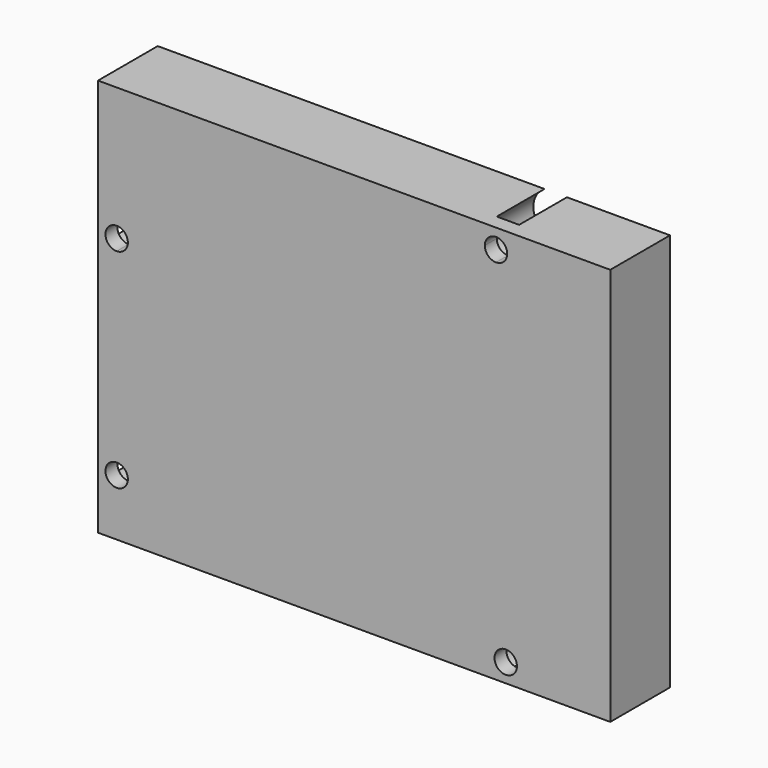
from build123d import *

# Parameters (mm, degrees)
F1_DEPTH = 10
F2_R     = 3
F3_DEPTH = 8


with BuildPart() as f1:
    # F0 (on Front) → F1 (new body)
    with BuildSketch(Plane.XZ):
        with BuildLine():
            Line((34.3, 26.65), (-34.3, 26.65))
            Line((-34.3, 26.65), (-34.3, 24.05))
            Line((-34.3, 24.05), (-31.8, 24.05))
            Line((-31.8, 24.05), (17.5, 24.05))
            ThreePointArc((17.5, 24.05), (19, 25.55), (20.5, 24.05))
            ThreePointArc((20.5, 24.05), (20.06066, 22.98934), (19, 22.55))
            Line((19, 22.55), (19, -23.401669))
            ThreePointArc((19, -23.401669), (20.687298, -22.700862), (21.8, -24.15))
            Line((21.8, -24.15), (34.3, -24.15))
            Line((34.3, -24.15), (34.3, 26.65))
        make_face()
        with BuildLine():
            ThreePointArc((-30.3, -19.05), (-30.73934, -17.98934), (-31.8, -17.55))
            ThreePointArc((-31.8, -17.55), (-32.86066, -20.11066), (-30.3, -19.05))
        make_face()
        with BuildLine():
            Line((-31.8, 24.05), (-34.3, 24.05))
            Line((-34.3, 24.05), (-34.3, -26.65))
            Line((-34.3, -26.65), (34.3, -26.65))
            Line((34.3, -26.65), (34.3, -24.15))
            Line((34.3, -24.15), (21.8, -24.15))
            ThreePointArc((21.8, -24.15), (19.912702, -25.599138), (19, -23.401669))
            Line((19, -23.401669), (19, 22.55))
            ThreePointArc((19, 22.55), (17.93934, 22.98934), (17.5, 24.05))
            Line((17.5, 24.05), (-31.8, 24.05))
        make_face()
        with BuildLine():
            ThreePointArc((-30.3, -19.05), (-32.86066, -20.11066), (-31.8, -17.55))
            ThreePointArc((-31.8, -17.55), (-30.73934, -17.98934), (-30.3, -19.05))
        make_face(mode=Mode.SUBTRACT)
        with BuildLine():
            ThreePointArc((-31.8, 7.35), (-33.3, 8.85), (-31.8, 10.35))
            ThreePointArc((-31.8, 10.35), (-30.73934, 9.91066), (-30.3, 8.85))
            ThreePointArc((-30.3, 8.85), (-30.73934, 7.78934), (-31.8, 7.35))
        make_face(mode=Mode.SUBTRACT)
    extrude(amount=F1_DEPTH)

    # F2 (on face) → F3 (cut)
    with BuildSketch(Plane(origin=(0, 0, 0), x_dir=(-1, 0, 0), z_dir=(0, 1, 0))):
        with Locations((-19, 24.05)):
            Circle(F2_R)
        with Locations((31.8, 8.85)):
            Circle(F2_R)
        with Locations((31.8, -19.05)):
            Circle(F2_R)
        with Locations((-20.3, -24.15)):
            Circle(F2_R)
    extrude(amount=-F3_DEPTH, mode=Mode.SUBTRACT)


solid = f1.part
